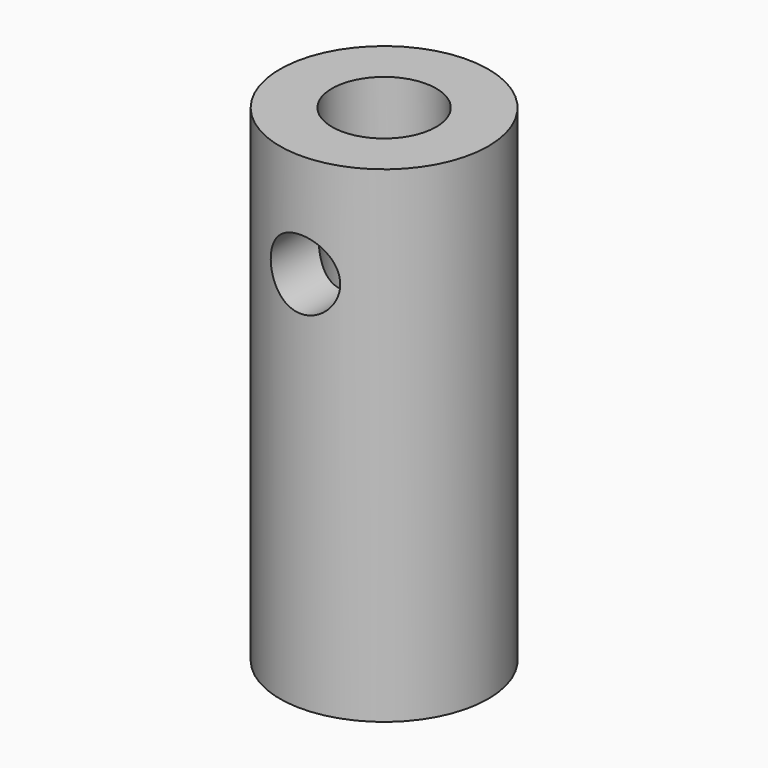
from build123d import *

# Parameters (mm, degrees)
SKETCH002_R  = 1
PAD001_DEPTH = 5
SKETCH_R     = 3
PAD_DEPTH    = 14
SKETCH001_R  = 1.5
POCKET_DEPTH = 8


with BuildPart() as pad001:
    # Sketch002 → Pad001 (new body, symmetric)
    with BuildSketch(Plane.XZ):
        with Locations((0, 11)):
            Circle(SKETCH002_R)
    extrude(amount=PAD001_DEPTH, both=True)


with BuildPart() as cut:
    # Sketch → Pad (new body)
    with BuildSketch(Plane.XY):
        Circle(SKETCH_R)
    extrude(amount=PAD_DEPTH)

    # Sketch001 → Pocket (cut)
    with BuildSketch(Plane.XY.offset(14)):
        Circle(SKETCH001_R)
    extrude(amount=-POCKET_DEPTH, mode=Mode.SUBTRACT)

    # Cut: cut Pad001
    add(pad001.part, mode=Mode.SUBTRACT)


solid = cut.part
